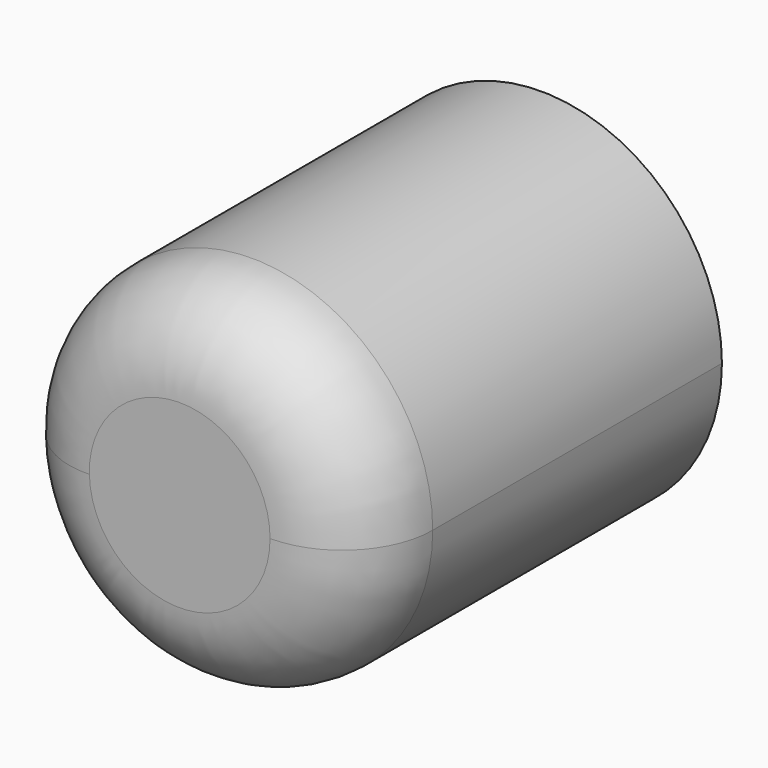
from build123d import *

# Parameters (mm, degrees)
F1_DEPTH = 25
F2_R     = 5


with BuildPart() as f1:
    # F0 (on Front) → F1 (new body)
    with BuildSketch(Plane.XZ):
        with BuildLine():
            ThreePointArc((0, 50), (10.119185, 40.245069), (19.997015, 50.244323))
            ThreePointArc((19.997015, 50.244323), (9.874844, 60.243576), (0, 50))
        make_face()
    extrude(amount=F1_DEPTH)

    # F2
    f2_edges = [f1.edges().sort_by_distance(p)[0] for p in [
        (19.99403, -25, 50.488645),
    ]]
    fillet(f2_edges, radius=F2_R)


solid = f1.part
